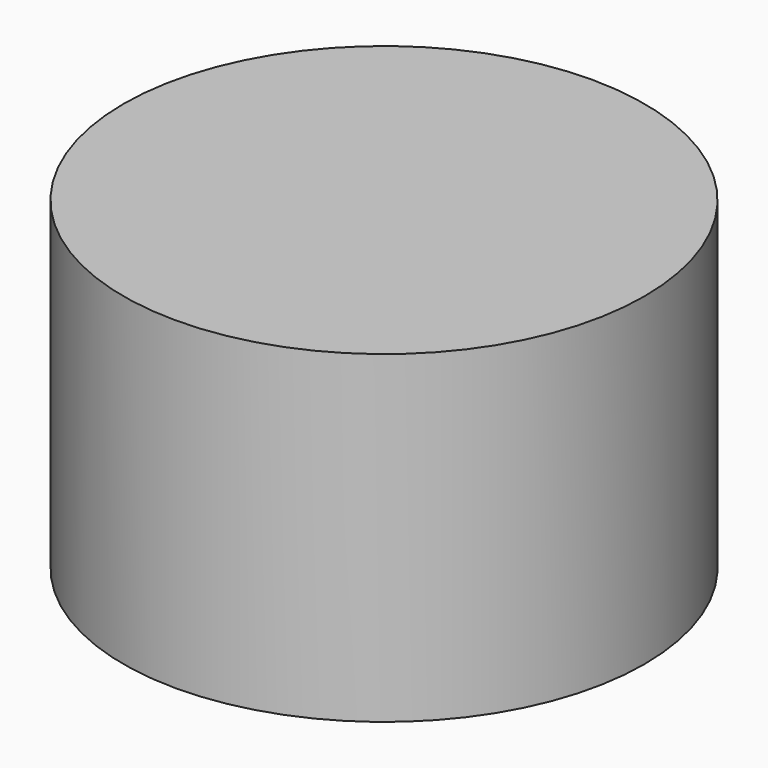
from build123d import *

# Parameters (mm, degrees)
CYLINDER_R     = 12.065
CYLINDER_DEPTH = 15


with BuildPart() as part:
    # Cylinder → Cylinder (new body)
    with BuildSketch(Plane.XY.offset(-2.5)):
        Circle(CYLINDER_R)
    extrude(amount=CYLINDER_DEPTH)


solid = part.part
